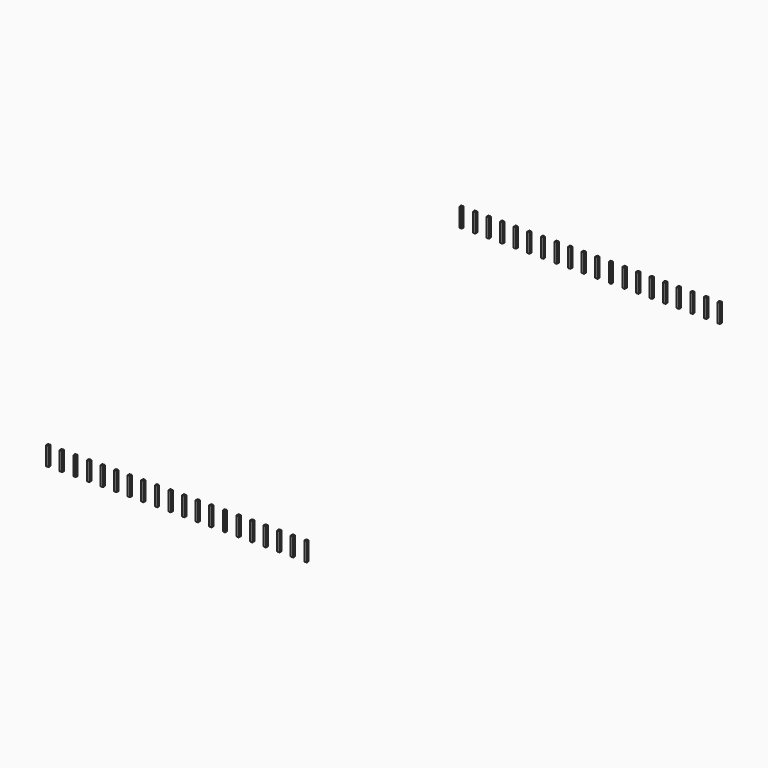
from build123d import *

# Parameters (mm, degrees)
BOX002_W      = 0.46
BOX002_H      = 0.46
BOX002_DEPTH  = 3.5
ARRAY_X_COUNT = 20
ARRAY_X_PITCH = 2.54
ARRAY_Y_COUNT = 2
ARRAY_Y_PITCH = 96.52


with BuildPart() as part:
    # Box002 → Box002 (new body)
    with BuildSketch(Plane(origin=(-0.23, -0.23, -3), x_dir=(1, 0, 0), z_dir=(0, 0, 1))):
        with Locations((0.23, 0.23)):
            Rectangle(BOX002_W, BOX002_H)
    extrude(amount=BOX002_DEPTH)

    # Array X: part ×20


with BuildPart() as part_1:
    add(part.part)
    with Locations(*[(i * ARRAY_X_PITCH, 0, 0) for i in range(1, ARRAY_X_COUNT)]):
        add(part.part)

    # Array Y: part ×2


with BuildPart() as part_2:
    add(part_1.part)
    with Locations(*[(0, -i * ARRAY_Y_PITCH, 0) for i in range(1, ARRAY_Y_COUNT)]):
        add(part_1.part)


solid = part_2.part
